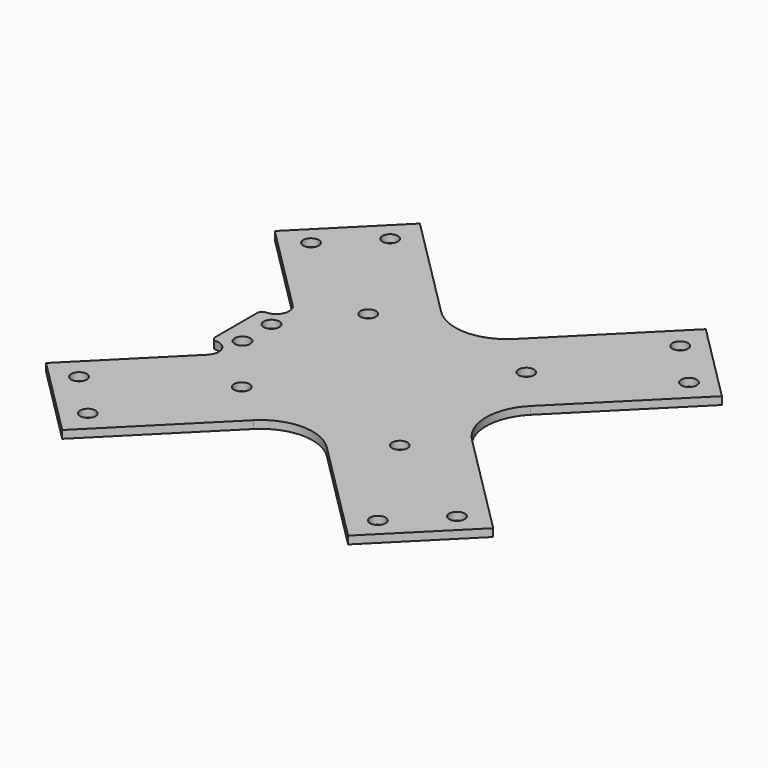
from build123d import *

# Parameters (mm, degrees)
F0_R     = 1.5
F1_DEPTH = 1.5


with BuildPart() as f1:
    # F0 (on Top) → F1 (new body)
    with BuildSketch(Plane.XY):
        with BuildLine():
            Line((-27.577164, 43.133514), (-43.133514, 27.577164))
            Line((-43.133514, 27.577164), (-25.824116, 10.267767))
            ThreePointArc((-25.824116, 10.267767), (-25.282184, 7.543291), (-27.591883, 6))
            ThreePointArc((-27.591883, 6), (-28.234019, 5.734019), (-28.5, 5.091883))
            Line((-28.5, 5.091883), (-28.5, -5.091883))
            ThreePointArc((-28.5, -5.091883), (-28.234019, -5.734019), (-27.591883, -6))
            ThreePointArc((-27.591883, -6), (-25.282184, -7.543291), (-25.824116, -10.267767))
            Line((-25.824116, -10.267767), (-43.133514, -27.577164))
            Line((-43.133514, -27.577164), (-27.577164, -43.133514))
            Line((-27.577164, -43.133514), (-7.071068, -22.627417))
            ThreePointArc((-7.071068, -22.627417), (0, -19.698485), (7.071068, -22.627417))
            Line((7.071068, -22.627417), (27.577164, -43.133514))
            Line((27.577164, -43.133514), (43.133514, -27.577164))
            Line((43.133514, -27.577164), (22.627417, -7.071068))
            ThreePointArc((22.627417, -7.071068), (19.698485, 0), (22.627417, 7.071068))
            Line((22.627417, 7.071068), (43.133514, 27.577164))
            Line((43.133514, 27.577164), (27.577164, 43.133514))
            Line((27.577164, 43.133514), (7.071068, 22.627417))
            ThreePointArc((7.071068, 22.627417), (0, 19.698485), (-7.071068, 22.627417))
            Line((-7.071068, 22.627417), (-27.577164, 43.133514))
        make_face()
        with Locations((-27.977922, -36.463203)):
            Circle(F0_R, mode=Mode.SUBTRACT)
        with Locations((-36.463203, -27.977922)):
            Circle(F0_R, mode=Mode.SUBTRACT)
        with Locations((-24.5, -3.5)):
            Circle(F0_R, mode=Mode.SUBTRACT)
        with Locations((-15.25, -15.25)):
            Circle(F0_R, mode=Mode.SUBTRACT)
        with Locations((27.977922, -36.463203)):
            Circle(F0_R, mode=Mode.SUBTRACT)
        with Locations((36.463203, -27.977922)):
            Circle(F0_R, mode=Mode.SUBTRACT)
        with Locations((15.25, -15.25)):
            Circle(F0_R, mode=Mode.SUBTRACT)
        with Locations((-24.5, 3.5)):
            Circle(F0_R, mode=Mode.SUBTRACT)
        with Locations((-15.25, 15.25)):
            Circle(F0_R, mode=Mode.SUBTRACT)
        with Locations((-36.463203, 27.977922)):
            Circle(F0_R, mode=Mode.SUBTRACT)
        with Locations((-27.977922, 36.463203)):
            Circle(F0_R, mode=Mode.SUBTRACT)
        with Locations((15.25, 15.25)):
            Circle(F0_R, mode=Mode.SUBTRACT)
        with Locations((36.463203, 27.977922)):
            Circle(F0_R, mode=Mode.SUBTRACT)
        with Locations((27.977922, 36.463203)):
            Circle(F0_R, mode=Mode.SUBTRACT)
    extrude(amount=F1_DEPTH)


solid = f1.part
